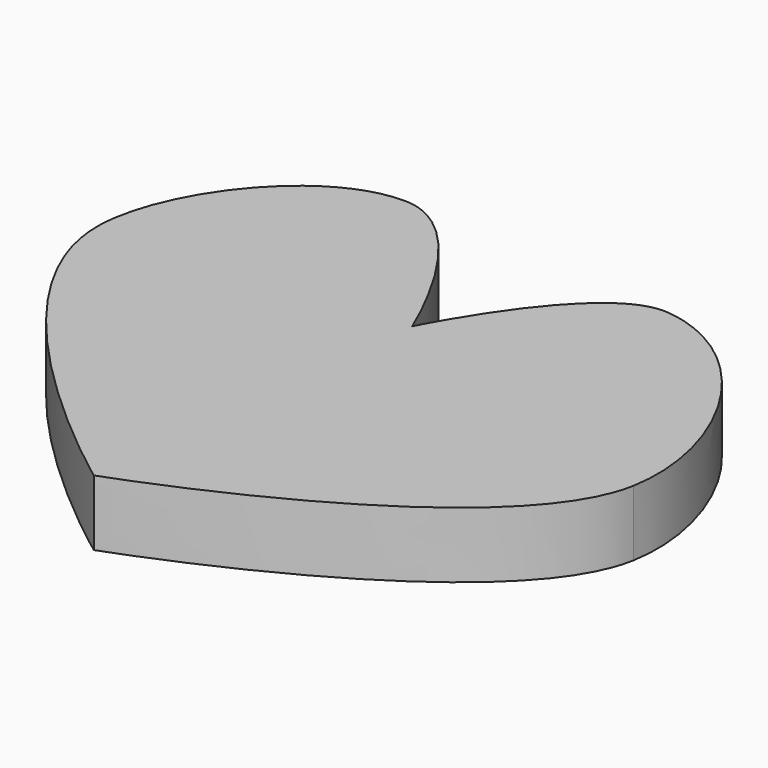
from build123d import *

# Parameters (mm, degrees)
EXTRUDE_DEPTH = 10


with BuildPart() as part:
    # path1 → Extrude (new body)
    with BuildSketch(Plane(origin=(108.25789, -120.977486, 0), x_dir=(0, 1, 0), z_dir=(0, 0, 1))):
        with BuildLine():
            add(Edge.make_bspline(
                [(-39.230663, 6.70963), (-39.230663, 6.70963), (-22.301203, -41.2591), (-1.240513, -45.02194)],
                knots=[0, 0, 0, 0, 1, 1, 1, 1], degree=3))
            add(Edge.make_bspline(
                [(-1.240513, -45.02194), (13.454927, -47.64753), (34.672536, -35.19502), (36.127187, -20.33791)],
                knots=[0, 0, 0, 0, 1, 1, 1, 1], degree=3))
            add(Edge.make_bspline(
                [(36.127187, -20.33791), (37.120399, -10.19372), (14.366627, 1.14457), (14.366627, 1.14457)],
                knots=[0, 0, 0, 0, 1, 1, 1, 1], degree=3))
            add(Edge.make_bspline(
                [(14.366627, 1.14457), (14.366627, 1.14457), (38.859006, 11.107047), (39.03231, 21.837759)],
                knots=[0, 0, 0, 0, 1, 1, 1, 1], degree=3))
            add(Edge.make_bspline(
                [(39.03231, 21.837759), (39.230664, 34.119576), (23.857324, 46.010292), (11.580787, 46.421398)],
                knots=[0, 0, 0, 0, 1, 1, 1, 1], degree=3))
            add(Edge.make_bspline(
                [(11.580787, 46.421398), (-9.903493, 47.140845), (-39.230663, 6.70963), (-39.230663, 6.70963)],
                knots=[0, 0, 0, 0, 1, 1, 1, 1], degree=3))
        make_face()
    extrude(amount=EXTRUDE_DEPTH)


solid = part.part
